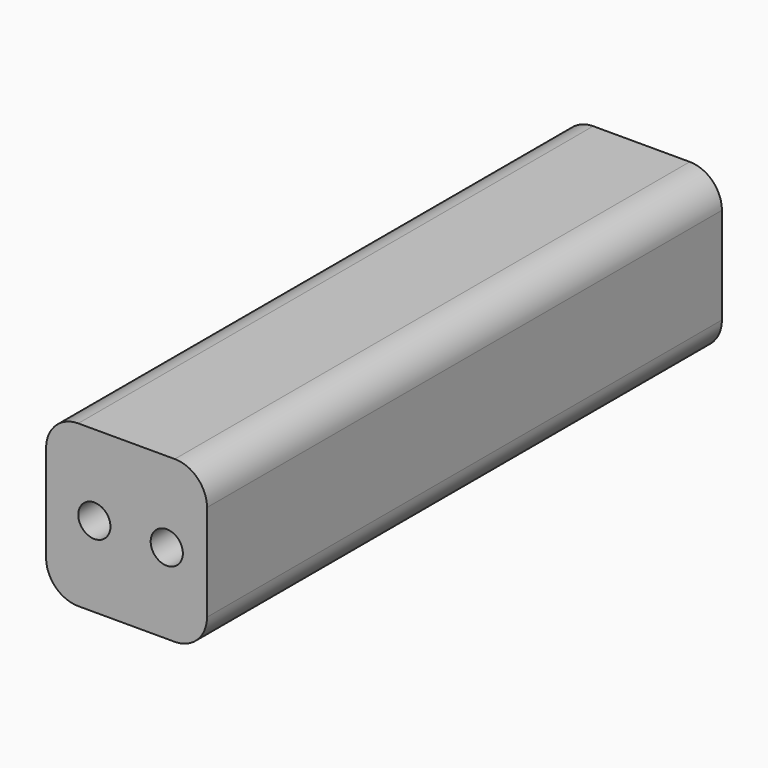
from build123d import *

# Parameters (mm, degrees)
CYLINDER050_R       = 2
CYLINDER050_DEPTH   = 100
ARRAY001028_X_COUNT = 2
ARRAY001028_X_PITCH = 9
BOX028_W            = 20
BOX028_H            = 80
BOX028_DEPTH        = 20
FILLET_R            = 4


with BuildPart() as stand_attachment_hole_fusion001:
    # Cylinder050 → Cylinder050 (new body)
    with BuildSketch(Plane(origin=(0, -10, 10), x_dir=(1, 0, 0), z_dir=(0, 1, 0))):
        Circle(CYLINDER050_R)
    extrude(amount=CYLINDER050_DEPTH)

    # Array001028 X: stand attachment hole fusion001 ×2


with BuildPart() as stand_attachment_hole_fusion001_1:
    add(stand_attachment_hole_fusion001.part)
    with Locations(*[(i * ARRAY001028_X_PITCH, 0, 0) for i in range(1, ARRAY001028_X_COUNT)]):
        add(stand_attachment_hole_fusion001.part)


with BuildPart() as stand_attachment_middle_fillet:
    # Box028 → Box028 (new body)
    with BuildSketch(Plane(origin=(-6, 0, 0), x_dir=(1, 0, 0), z_dir=(0, 0, 1))):
        with Locations((10, 40)):
            Rectangle(BOX028_W, BOX028_H)
    extrude(amount=BOX028_DEPTH)

    # Cut020: cut stand attachment hole fusion001
    add(stand_attachment_hole_fusion001_1.part, mode=Mode.SUBTRACT)


with BuildPart() as stand_attachment_middle_fillet_1:
    # Cut020 placement: moved
    add(stand_attachment_middle_fillet.part.moved(Location((-64, 0, -61))))

    # Fillet
    fillet_edges = [stand_attachment_middle_fillet_1.edges().sort_by_distance(p)[0] for p in [
        (-70, 40, -41),
        (-70, 40, -61),
        (-50, 40, -41),
        (-50, 40, -61),
    ]]
    fillet(fillet_edges, radius=FILLET_R)


solid = stand_attachment_middle_fillet_1.part
